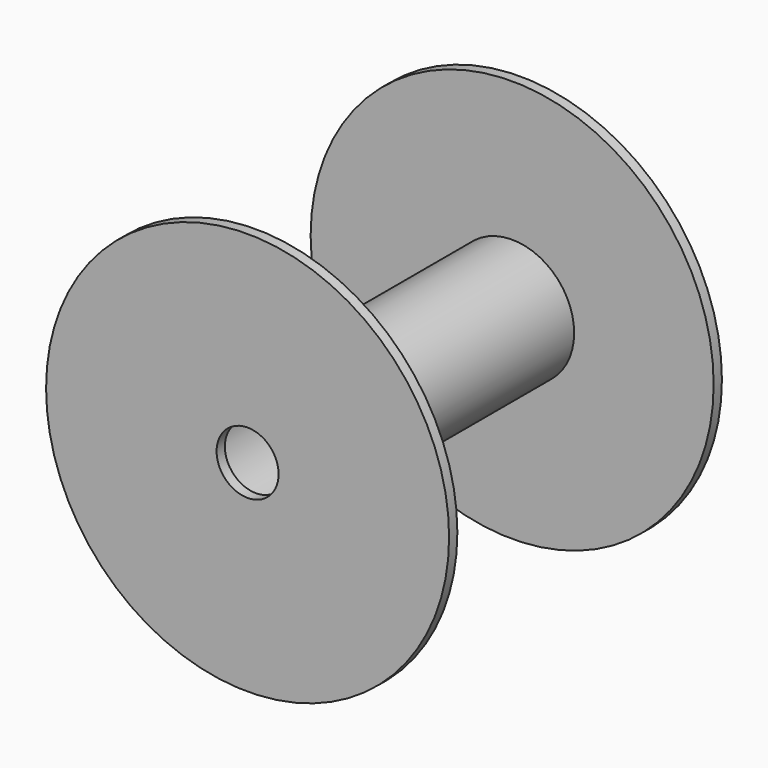
from build123d import *

# Parameters (mm, degrees)
F0_R     = 39
F0_R_2   = 10.5
F1_DEPTH = 2
F2_R     = 12
F2_R_2   = 10.5
F3_DEPTH = 62
F4_R     = 39
F4_R_2   = 6
F5_DEPTH = 2


with BuildPart() as f1:
    # F0 (on Front) → F1 (new body)
    with BuildSketch(Plane.XZ):
        Circle(F0_R)
        Circle(F0_R_2, mode=Mode.SUBTRACT)
    extrude(amount=F1_DEPTH)

    # F2 (on face) → F3 (join)
    with BuildSketch(Plane.XZ.offset(2)):
        Circle(F2_R)
        Circle(F2_R_2, mode=Mode.SUBTRACT)
    extrude(amount=F3_DEPTH)

    # F4 (on face) → F5 (join)
    with BuildSketch(Plane.XZ.offset(64)):
        Circle(F4_R)
        Circle(F4_R_2, mode=Mode.SUBTRACT)
    extrude(amount=F5_DEPTH)


solid = f1.part
